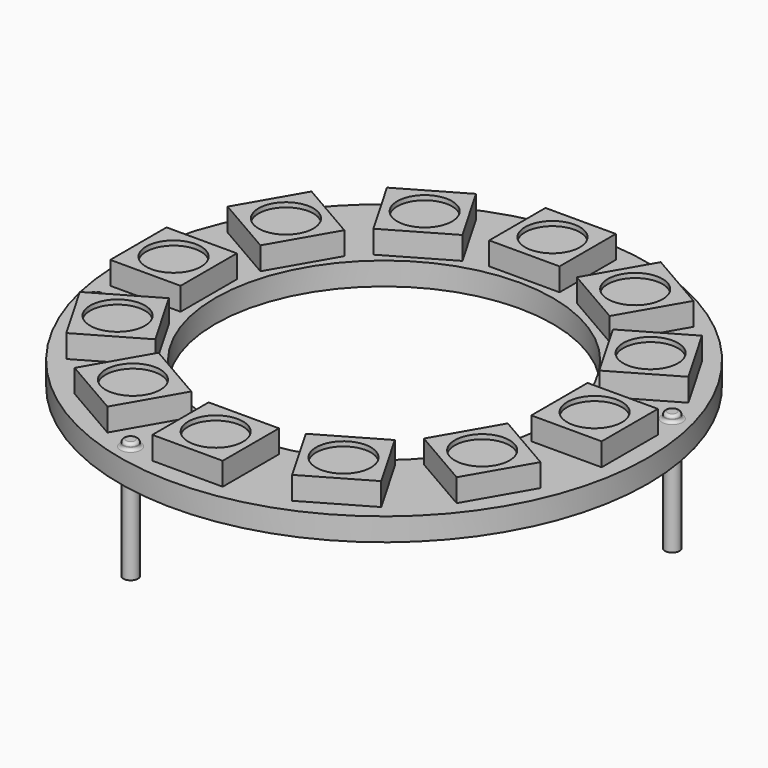
from build123d import *

# Parameters (mm, degrees)
F0_R          = 18.3515
F0_R_2        = 0.508
F0_R_3        = 11.7348
F1_DEPTH      = 1.5875
F2_W          = 4.8895
F2_H          = 4.8895
F2_R          = 1.905
F3_DEPTH      = 1.5875
F4_DEPTH      = 1.27
F5_DEPTH      = 6.35
F5_DEPTH_BACK = 2.032
F6_R          = 0.2032


with BuildPart() as f1:
    # F0 (on Top) → F1 (new body)
    with BuildSketch(Plane.XY):
        Circle(F0_R)
        with Locations((-4.4210175189, -16.4994620018)):
            Circle(F0_R_2, mode=Mode.SUBTRACT)
        with Locations((-16.4994620018, -4.4210175189)):
            Circle(F0_R_2, mode=Mode.SUBTRACT)
        Circle(F0_R_3, mode=Mode.SUBTRACT)
        with Locations((16.4994620018, 4.4210175189)):
            Circle(F0_R_2, mode=Mode.SUBTRACT)
        with Locations((4.4210175189, 16.4994620018)):
            Circle(F0_R_2, mode=Mode.SUBTRACT)
    extrude(amount=F1_DEPTH)

    # F2 (on face) → F3 (join)
    with BuildSketch(Plane.XY.offset(1.5875)):
        with Locations((0, 14.63675)):
            Rectangle(F2_W, F2_H)
        with Locations((0, 14.63675)):
            Circle(F2_R, mode=Mode.SUBTRACT)
        Polygon((-6.4235343941, 16.0153879347), (-10.6579656059, 13.5706379347), (-8.2132156059, 9.3362067229), (-3.9787843941, 11.7809567229), align=None)
        with Locations((-7.318375, 12.6757973288)):
            Circle(F2_R, mode=Mode.SUBTRACT)
        Polygon((-13.5706379347, 10.6579656059), (-16.0153879347, 6.4235343941), (-11.7809567229, 3.9787843941), (-9.3362067229, 8.2132156059), align=None)
        with Locations((-12.6757973288, 7.318375)):
            Circle(F2_R, mode=Mode.SUBTRACT)
        with Locations((-14.63675, 0)):
            Rectangle(F2_W, F2_H)
        with Locations((-14.63675, 0)):
            Circle(F2_R, mode=Mode.SUBTRACT)
        Polygon((-16.0153879347, -6.4235343941), (-13.5706379347, -10.6579656059), (-9.3362067229, -8.2132156059), (-11.7809567229, -3.9787843941), align=None)
        with Locations((-12.6757973288, -7.318375)):
            Circle(F2_R, mode=Mode.SUBTRACT)
        Polygon((-10.6579656059, -13.5706379347), (-6.4235343941, -16.0153879347), (-3.9787843941, -11.7809567229), (-8.2132156059, -9.3362067229), align=None)
        with Locations((-7.318375, -12.6757973288)):
            Circle(F2_R, mode=Mode.SUBTRACT)
        with Locations((0, -14.63675)):
            Rectangle(F2_W, F2_H)
        with Locations((0, -14.63675)):
            Circle(F2_R, mode=Mode.SUBTRACT)
        Polygon((6.4235343941, -16.0153879347), (10.6579656059, -13.5706379347), (8.2132156059, -9.3362067229), (3.9787843941, -11.7809567229), align=None)
        with Locations((7.318375, -12.6757973288)):
            Circle(F2_R, mode=Mode.SUBTRACT)
        Polygon((13.5706379347, -10.6579656059), (16.0153879347, -6.4235343941), (11.7809567229, -3.9787843941), (9.3362067229, -8.2132156059), align=None)
        with Locations((12.6757973288, -7.318375)):
            Circle(F2_R, mode=Mode.SUBTRACT)
        with Locations((14.63675, 0)):
            Rectangle(F2_W, F2_H)
        with Locations((14.63675, 0)):
            Circle(F2_R, mode=Mode.SUBTRACT)
        Polygon((16.0153879347, 6.4235343941), (13.5706379347, 10.6579656059), (9.3362067229, 8.2132156059), (11.7809567229, 3.9787843941), align=None)
        with Locations((12.6757973288, 7.318375)):
            Circle(F2_R, mode=Mode.SUBTRACT)
        Polygon((10.6579656059, 13.5706379347), (6.4235343941, 16.0153879347), (3.9787843941, 11.7809567229), (8.2132156059, 9.3362067229), align=None)
        with Locations((7.318375, 12.6757973288)):
            Circle(F2_R, mode=Mode.SUBTRACT)
    extrude(amount=F3_DEPTH)

    # F4 (add): faces of the model
    f4_faces = [f1.faces().sort_by_distance(p)[0] for p in [
        (0, 14.63675, 1.5875),
        (7.318375, 12.6757973288, 1.5875),
        (12.6757973288, 7.318375, 1.5875),
        (14.63675, 0, 1.5875),
        (12.6757973288, -7.318375, 1.5875),
        (7.318375, -12.6757973288, 1.5875),
        (0, -14.63675, 1.5875),
        (-7.318375, -12.6757973288, 1.5875),
        (-12.6757973288, -7.318375, 1.5875),
        (-14.63675, 0, 1.5875),
        (-12.6757973288, 7.318375, 1.5875),
        (-7.318375, 12.6757973288, 1.5875),
    ]]
    extrude(f4_faces, amount=F4_DEPTH)

    # F0 (on Top) → F5 (join, two sides)
    with BuildSketch(Plane.XY) as f5_sk:
        with Locations((-4.4210175189, -16.4994620018)):
            Circle(F0_R_2)
        with Locations((-16.4994620018, -4.4210175189)):
            Circle(F0_R_2)
        with Locations((16.4994620018, 4.4210175189)):
            Circle(F0_R_2)
    extrude(amount=-F5_DEPTH)
    extrude(f5_sk.sketch, amount=F5_DEPTH_BACK)

    # F6
    f6_edges = [f1.edges().sort_by_distance(p)[0] for p in [
        (15.991462, 4.421018, 1.5875),
        (15.991462, 4.421018, 2.032),
        (-17.007462, -4.421018, 2.032),
        (-4.929018, -16.499462, 2.032),
        (-17.007462, -4.421018, 1.5875),
        (-4.929018, -16.499462, 1.5875),
    ]]
    fillet(f6_edges, radius=F6_R)


solid = f1.part
